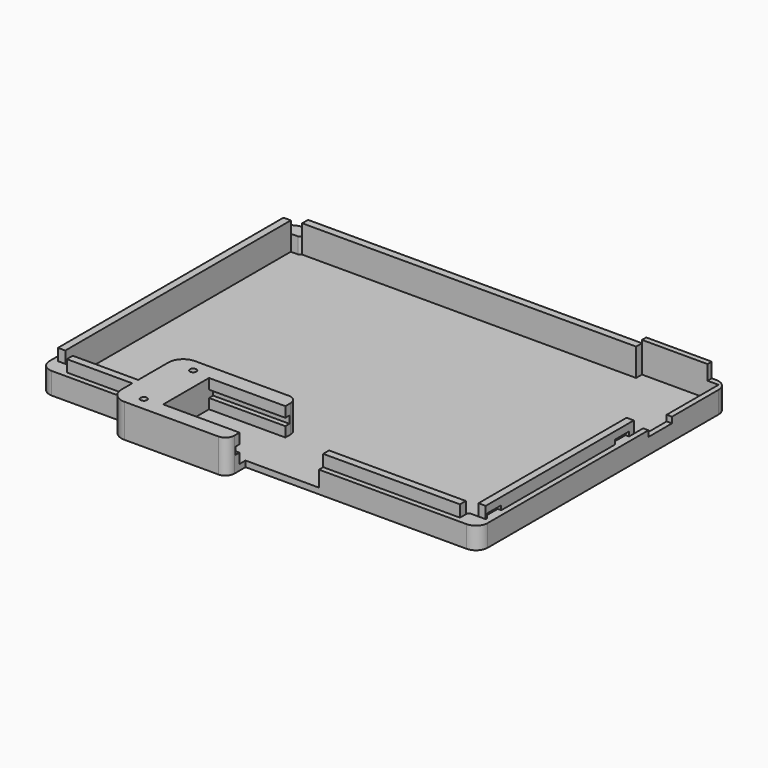
from build123d import *

# Parameters (mm, degrees)
PAD010_DEPTH    = 2
PAD011_DEPTH    = 5.4
SKETCH023_W     = 40
SKETCH023_H     = 30
SKETCH023_W_2   = 2.5
SKETCH023_H_2   = 95.99
SKETCH023_W_3   = 113.7
SKETCH023_H_3   = 2.5
SKETCH023_W_4   = 22.3
SKETCH023_W_5   = 46.56
SKETCH023_W_6   = 2.45
SKETCH023_H_4   = 75.89
PAD012_DEPTH    = 9.4
POCKET_DEPTH    = 26
SKETCH025_W     = 15
SKETCH025_H     = 10
POCKET008_DEPTH = 6
SKETCH028_W     = 22.31
SKETCH028_H     = 1.8
PAD015_DEPTH    = 10.4
FILLET_R        = 5
FILLET001_R     = 3
SKETCH035_W     = 6
SKETCH035_H     = 1.5
POCKET011_DEPTH = 1.2
SKETCH036_W     = 6
SKETCH036_H     = 1.5
POCKET012_DEPTH = 1.2
SKETCH037_R     = 1.1
POCKET013_DEPTH = 12
SKETCH038_R     = 2
POCKET014_DEPTH = 5
SKETCH051_W     = 2.45
SKETCH051_H     = 4
POCKET023_DEPTH = 4
SKETCH055_W     = 2.45
SKETCH055_H     = 5.4
POCKET024_DEPTH = 12.87


with BuildPart() as part:
    # Sketch020 → Pad010 (new body)
    with BuildSketch(Plane.XY):
        with BuildLine():
            Line((235.7, -27.1), (235.7, -125.39))
            ThreePointArc((231.7, -129.39), (234.528427, -128.218427), (235.7, -125.39))
            Line((156.44, -129.39), (231.7, -129.39))
            Line((156.44, -129.39), (156.44, -137.19))
            Line((116.44, -137.19), (156.44, -137.19))
            Line((116.44, -129.39), (116.44, -137.19))
            Line((116.44, -129.39), (90.44, -129.39))
            ThreePointArc((86.44, -125.39), (87.611573, -128.218427), (90.44, -129.39))
            Line((86.44, -27.1), (86.44, -125.39))
            ThreePointArc((90.44, -23.1), (87.611573, -24.271573), (86.44, -27.1))
            Line((90.44, -23.1), (231.7, -23.1))
            ThreePointArc((235.7, -27.1), (234.528427, -24.271573), (231.7, -23.1))
        make_face()
    extrude(amount=PAD010_DEPTH)

    # Sketch021 (on Face14 of Pad010) → Pad011 (join)
    with BuildSketch(Plane.XY.offset(2)):
        with BuildLine():
            Line((235.7, -27.1), (235.7, -125.39))
            ThreePointArc((231.7, -129.39), (234.528427, -128.218427), (235.7, -125.39))
            Line((231.7, -129.39), (181.44, -129.39))
            Line((181.44, -127.59), (181.44, -129.39))
            Line((228, -127.59), (181.44, -127.59))
            Line((228, -127.59), (228, -124.99))
            ThreePointArc((229, -123.99), (228.292893, -124.282893), (228, -124.99))
            Line((233.9, -123.99), (229, -123.99))
            Line((233.9, -123.99), (233.9, -24.9))
            Line((230.15, -24.9), (233.9, -24.9))
            Line((230.15, -24.9), (230.15, -23.1))
            Line((230.15, -23.1), (231.7, -23.1))
            ThreePointArc((235.7, -27.1), (234.528427, -24.271573), (231.7, -23.1))
        make_face()
        with BuildLine():
            Line((86.44, -27.1), (86.44, -125.39))
            ThreePointArc((86.44, -125.39), (87.611573, -128.218427), (90.44, -129.39))
            Line((90.44, -129.39), (116.44, -129.39))
            Line((116.44, -129.39), (116.44, -127.59))
            Line((116.44, -127.59), (94.14, -127.59))
            Line((94.14, -124.99), (94.14, -127.59))
            ThreePointArc((94.14, -124.99), (93.847107, -124.282893), (93.14, -123.99))
            Line((88.24, -123.99), (93.14, -123.99))
            Line((88.24, -28), (88.24, -123.99))
            Line((93.14, -28), (88.24, -28))
            ThreePointArc((93.14, -28), (93.847107, -27.707107), (94.14, -27))
            Line((94.14, -24.9), (94.14, -27))
            Line((207.84, -24.9), (94.14, -24.9))
            Line((207.84, -24.9), (207.84, -23.1))
            Line((90.44, -23.1), (207.84, -23.1))
            ThreePointArc((90.44, -23.1), (87.611573, -24.271573), (86.44, -27.1))
        make_face()
    extrude(amount=PAD011_DEPTH)

    # Sketch023 (on Face3 of Pad011) → Pad012 (join)
    with BuildSketch(Plane.XY.offset(2)):
        with Locations((136.44, -122.19)):
            Rectangle(SKETCH023_W, SKETCH023_H)
        with Locations((89.49, -75.995)):
            Rectangle(SKETCH023_W_2, SKETCH023_H_2)
        with Locations((150.99, -26.15)):
            Rectangle(SKETCH023_W_3, SKETCH023_H_3)
        with Locations((105.29, -126.34)):
            Rectangle(SKETCH023_W_4, SKETCH023_H_3)
        with Locations((204.72, -126.34)):
            Rectangle(SKETCH023_W_5, SKETCH023_H_3)
        with Locations((232.675, -86.045)):
            Rectangle(SKETCH023_W_6, SKETCH023_H_4)
    extrude(amount=PAD012_DEPTH)

    # Sketch024 (on Face48 of Pad012) → Pocket (cut)
    with BuildSketch(Plane.YZ.offset(156.44)):
        Polygon((-131.94, 5.4), (-131.94, 2), (-112.44, 2), (-112.44, 5.4), (-110.69, 5.4), (-110.69, 7.9), (-112.44, 7.9), (-112.44, 11.4), (-131.94, 11.4), (-131.94, 7.9), (-133.69, 7.9), (-133.69, 5.4), align=None)
    extrude(amount=-POCKET_DEPTH, mode=Mode.SUBTRACT)

    # Sketch025 (on Face61 of Pocket) → Pocket008 (cut)
    with BuildSketch(Plane.XY.offset(11.4)):
        with Locations((232.43, -51.97)):
            Rectangle(SKETCH025_W, SKETCH025_H)
    extrude(amount=-POCKET008_DEPTH, mode=Mode.SUBTRACT)

    # Sketch028 (on Face16 of Pocket008) → Pad015 (join)
    with BuildSketch(Plane.XY.offset(2)):
        with Locations((218.995, -24)):
            Rectangle(SKETCH028_W, SKETCH028_H)
    extrude(amount=PAD015_DEPTH)

    # Fillet
    fillet_edges = [part.edges().sort_by_distance(p)[0] for p in [
        (116.44, -137.19, 5.7),
        (116.44, -107.19, 6.7),
    ]]
    fillet(fillet_edges, radius=FILLET_R)

    # Fillet001
    fillet001_edges = [part.edges().sort_by_distance(p)[0] for p in [
        (156.44, -137.19, 5.7),
        (156.44, -107.19, 6.7),
    ]]
    fillet(fillet001_edges, radius=FILLET001_R)

    # Sketch035 (on Face12 of Fillet001) → Pocket011 (cut)
    with BuildSketch(Plane(origin=(88.24, 0, 0), x_dir=(0, -1, 0), z_dir=(-1, 0, 0))):
        with Locations((32.1, 8.15)):
            Rectangle(SKETCH035_W, SKETCH035_H)
        with Locations((120.39, 8.15)):
            Rectangle(SKETCH035_W, SKETCH035_H)
    extrude(amount=-POCKET011_DEPTH, mode=Mode.SUBTRACT)

    # Sketch036 (on Face68 of Pocket011) → Pocket012 (cut)
    with BuildSketch(Plane.YZ.offset(233.9)):
        with Locations((-120.39, 8.15)):
            Rectangle(SKETCH036_W, SKETCH036_H)
        with Locations((-65.97, 8.15)):
            Rectangle(SKETCH036_W, SKETCH036_H)
    extrude(amount=-POCKET012_DEPTH, mode=Mode.SUBTRACT)

    # Sketch037 (on Face16 of Pocket012) → Pocket013 (cut)
    with BuildSketch(Plane.XY.offset(11.4)):
        with Locations((124.44, -111.69)):
            Circle(SKETCH037_R)
        with Locations((124.44, -132.69)):
            Circle(SKETCH037_R)
    extrude(amount=-POCKET013_DEPTH, mode=Mode.SUBTRACT)

    # Sketch038 (on Face1 of Pocket013) → Pocket014 (cut)
    with BuildSketch(Plane(origin=(0, 0, 0), x_dir=(1, 0, 0), z_dir=(0, 0, -1))):
        with Locations((124.44, 132.69)):
            Circle(SKETCH038_R)
        with Locations((124.44, 111.69)):
            Circle(SKETCH038_R)
    extrude(amount=-POCKET014_DEPTH, mode=Mode.SUBTRACT)

    # Sketch051 (on Face29 of Pocket014) → Pocket023 (cut)
    with BuildSketch(Plane(origin=(0, -56.97, 0), x_dir=(-1, 0, 0), z_dir=(0, 1, 0))):
        with Locations((-232.675, 9.4)):
            Rectangle(SKETCH051_W, SKETCH051_H)
    extrude(amount=-POCKET023_DEPTH, mode=Mode.SUBTRACT)

    # Sketch055 (on Face72 of Pocket023) → Pocket024 (cut)
    with BuildSketch(Plane(origin=(0, -48.1, 0), x_dir=(-1, 0, 0), z_dir=(0, 1, 0))):
        with Locations((-232.675, 4.7)):
            Rectangle(SKETCH055_W, SKETCH055_H)
    extrude(amount=-POCKET024_DEPTH, mode=Mode.SUBTRACT)


solid = part.part
